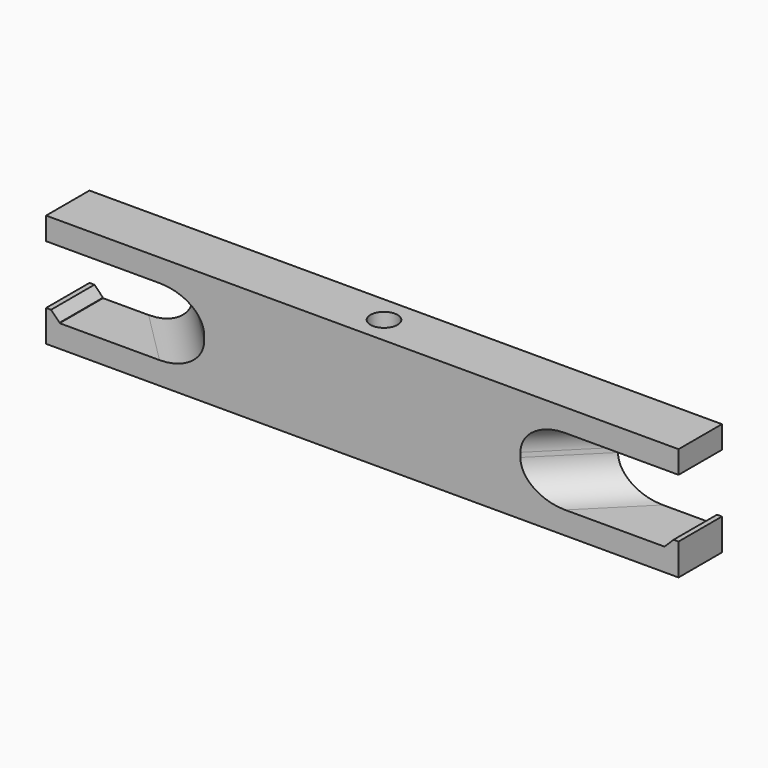
from build123d import *

# Parameters (mm, degrees)
PAD_DEPTH    = 15
SKETCH001_W  = 140
SKETCH001_H  = 12
PAD001_DEPTH = 5
SKETCH002_W  = 140
SKETCH002_H  = 12
PAD002_DEPTH = 5
FILLET_R     = 7
SKETCH003_R  = 3
POCKET_DEPTH = 25.001
SKETCH004_W  = 3
SKETCH004_H  = 12
PAD003_DEPTH = 2
CHAMFER_SIZE = 1.9


with BuildPart() as part:
    # Sketch → Pad (new body)
    with BuildSketch(Plane.XY):
        Polygon((0, 0), (70, 0), (82, 12), (-12, 12), align=None)
    extrude(amount=PAD_DEPTH)

    # Sketch001 (on Face6 of Pad) → Pad001 (join)
    with BuildSketch(Plane.XY.offset(15)):
        with Locations((35, 6)):
            Rectangle(SKETCH001_W, SKETCH001_H)
    extrude(amount=PAD001_DEPTH)

    # Sketch002 (on Face11 of Pad001) → Pad002 (join)
    with BuildSketch(Plane(origin=(0, 0, 0), x_dir=(1, 0, 0), z_dir=(0, 0, -1))):
        with Locations((35, -6)):
            Rectangle(SKETCH002_W, SKETCH002_H)
    extrude(amount=PAD002_DEPTH)

    # Fillet
    fillet_edges = [part.edges().sort_by_distance(p)[0] for p in [
        (76, 6, 15),
        (-6, 6, 15),
        (-6, 6, 0),
        (76, 6, 0),
    ]]
    fillet(fillet_edges, radius=FILLET_R)

    # Sketch003 (on Face20 of Fillet) → Pocket (cut, through all)
    with BuildSketch(Plane.XY.offset(20)):
        with Locations((35, 6)):
            Circle(SKETCH003_R)
    extrude(amount=-POCKET_DEPTH, mode=Mode.SUBTRACT)

    # Sketch004 (on Face7 of Pocket) → Pad003 (join)
    with BuildSketch(Plane.XY):
        with Locations((-33.5, 6)):
            Rectangle(SKETCH004_W, SKETCH004_H)
        with Locations((103.5, 6)):
            Rectangle(SKETCH004_W, SKETCH004_H)
    extrude(amount=PAD003_DEPTH)

    # Chamfer
    chamfer_edges = [part.edges().sort_by_distance(p)[0] for p in [
        (-32, 6, 2),
        (102, 6, 2),
    ]]
    chamfer(chamfer_edges, length=CHAMFER_SIZE)


solid = part.part
